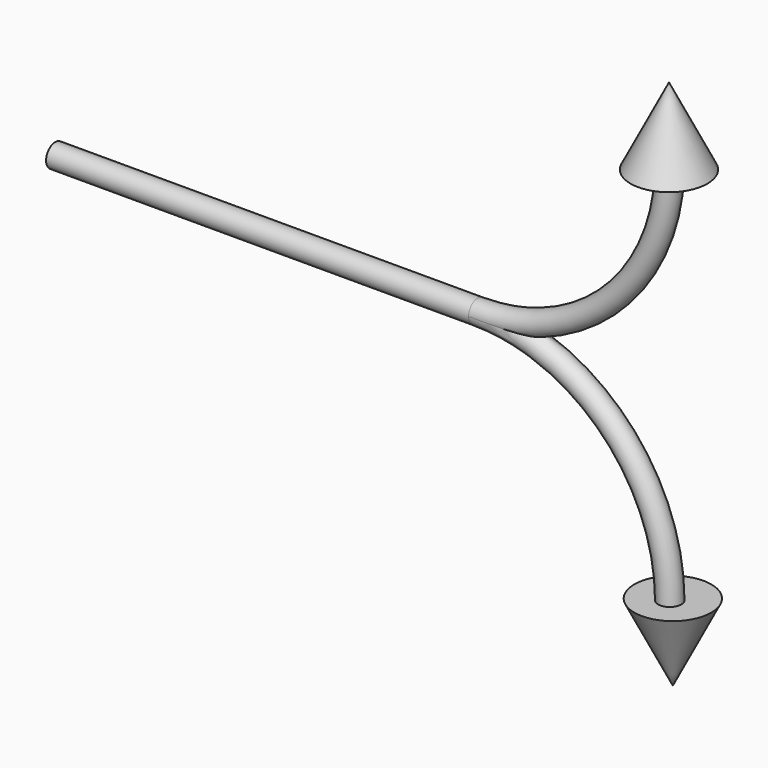
from build123d import *

# Parameters (mm, degrees)
TORUS_R                 = 0.3
TORUS_ANGLE             = 90
TORUS_ROLL_ANGLE        = -90
TORUS001_R              = 0.3
TORUS001_ANGLE          = 90
CYLINDER008_R           = 0.3
CYLINDER008_DEPTH       = 11
CYLINDER008_PITCH_ANGLE = -90


with BuildPart() as torus:
    # Torus → Torus (revolve)
    with BuildSketch(Plane.XZ):
        with Locations((5, 0)):
            Circle(TORUS_R)
    revolve(axis=Axis((0, 0, 0), (0, 0, 1)), revolution_arc=TORUS_ANGLE)


with BuildPart() as torus_1:
    # Torus roll: moved
    add(torus.part.rotate(Axis((0, 0, 0), (1, 0, 0)), TORUS_ROLL_ANGLE))


with BuildPart() as torus_2:
    # Torus placement: moved
    add(torus_1.part.moved(Location((7.3, -2.7, 12))))


with BuildPart() as cone001:
    # Cone001 → Cone001 (revolve)
    with BuildSketch(Plane(origin=(12.2, -2.6, 11.8), x_dir=(1, 0, 0), z_dir=(0, -1, 0))):
        Polygon((0, 0), (1, 0), (0, 2), align=None)
    revolve(axis=Axis((12.2, -2.6, 11.8), (0, 0, 1)))


with BuildPart() as cone:
    # Cone → Cone (revolve)
    with BuildSketch(Plane(origin=(12.3, -2.6, 0), x_dir=(1, 0, 0), z_dir=(0, -1, 0))):
        Polygon((0, 0), (1, 2), (0, 2), align=None)
    revolve(axis=Axis((12.3, -2.6, 0), (0, 0, 1)))


with BuildPart() as torus001:
    # Torus001 → Torus001 (revolve)
    with BuildSketch(Plane(origin=(7.3, -2.7, 2), x_dir=(0, 0, 1), z_dir=(-1, 0, 0))):
        with Locations((5, 0)):
            Circle(TORUS001_R)
    revolve(axis=Axis((7.3, -2.7, 2), (0, 1, 0)), revolution_arc=TORUS001_ANGLE)


with BuildPart() as fusion012:
    # Cylinder008 → Cylinder008 (new body)
    with BuildSketch(Plane.XY):
        Circle(CYLINDER008_R)
    extrude(amount=CYLINDER008_DEPTH)


with BuildPart() as fusion012_1:
    # Cylinder008 pitch: moved
    add(fusion012.part.rotate(Axis((0, 0, 0), (0, 1, 0)), CYLINDER008_PITCH_ANGLE))


with BuildPart() as fusion012_2:
    # Cylinder008 placement: moved
    add(fusion012_1.part.moved(Location((7.3, -2.7, 7))))

    # Fusion012: union Torus, Cone001, Cone, Torus001
    add(torus_2.part)
    add(cone001.part)
    add(cone.part)
    add(torus001.part)


with BuildPart() as fusion012_3:
    # Fusion012 placement: moved
    add(fusion012_2.part.moved(Location((0, 0, -2.36))))


solid = fusion012_3.part
